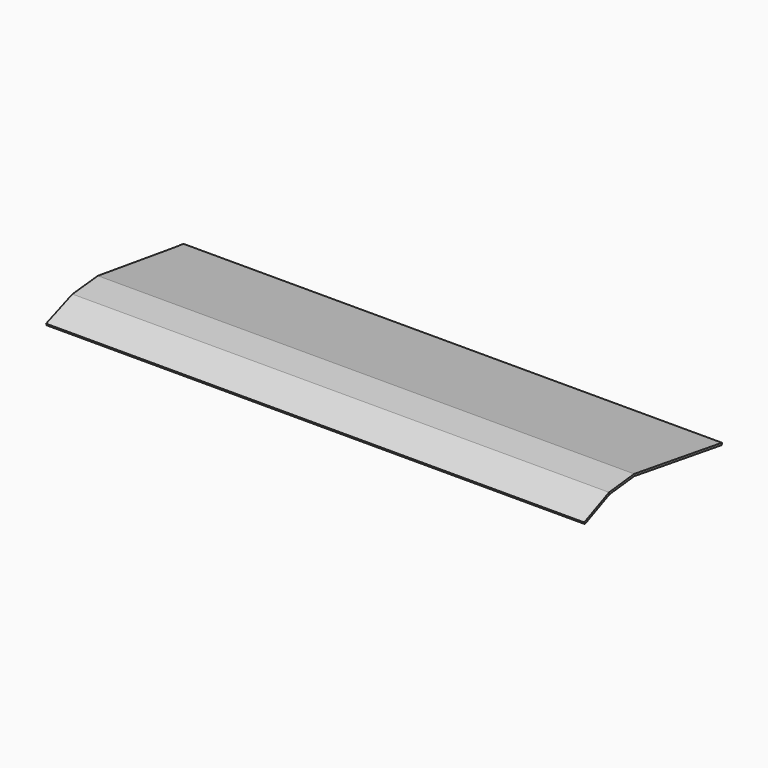
from build123d import *

# Parameters (mm, degrees)
F1_DEPTH = 787
F3_DEPTH = 150


with BuildPart() as f1:
    # F0 (on Right) → F1 (new body)
    with BuildSketch(Plane.YZ):
        Polygon((-92.970967, 2.741435), (-91.752551, 0), (-46.752551, 20), (-1.752551, 25), (158.247449, 0), (158.710579, 2.964036), (-1.685457, 28.025917), (-47.546024, 22.930298), align=None)
        Polygon((-92.970967, 2.741435), (-91.752551, 0), (-46.752551, 20), (-1.752551, 25), (158.247449, 0), (158.710579, 2.964036), (-1.685457, 28.025917), (-47.546024, 22.930298), align=None)
        Polygon((-92.970967, 2.741435), (-91.752551, 0), (-46.752551, 20), (-1.752551, 25), (158.247449, 0), (158.710579, 2.964036), (-1.685457, 28.025917), (-47.546024, 22.930298), align=None)
    extrude(amount=F1_DEPTH)

    # F2 (on Front) → F3 (cut, symmetric)
    with BuildSketch(Plane.XZ):
        Polygon((-49.726095, 5.226423), (0, 0), (5.226423, 49.726095), (-44.499672, 54.952518), align=None)
    extrude(amount=F3_DEPTH, both=True, mode=Mode.SUBTRACT)


solid = f1.part
